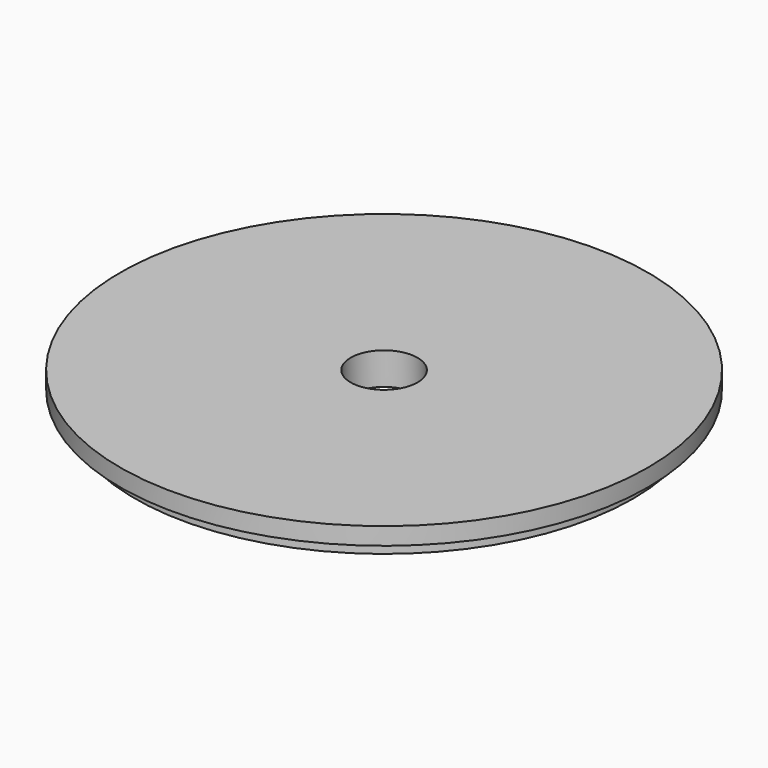
from build123d import *

# Parameters (mm, degrees)
F0_R     = 13.5255
F1_DEPTH = 0.889
F2_R     = 12.7635
F3_DEPTH = 1.651
F4_R     = 1.7145
F5_DEPTH = 1.652


with BuildPart() as f1:
    # F0 (on Top) → F1 (new body)
    with BuildSketch(Plane.XY):
        Circle(F0_R)
    extrude(amount=-F1_DEPTH)

    # F2 (on face) → F3 (join)
    with BuildSketch(Plane.XY):
        Circle(F2_R)
    extrude(amount=-F3_DEPTH)

    # F4 (on face) → F5 (cut, through all)
    with BuildSketch(Plane.XY):
        Circle(F4_R)
    extrude(amount=-F5_DEPTH, mode=Mode.SUBTRACT)


solid = f1.part
